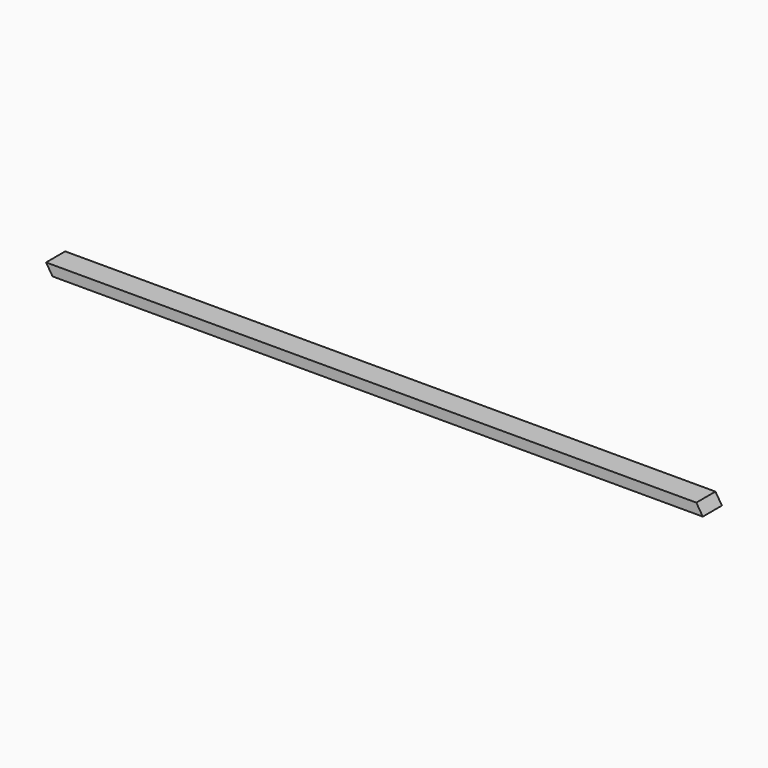
from build123d import *

# Parameters (mm, degrees)
F1_DEPTH      = 19.05
F3_DEPTH      = 44.451
F3_DEPTH_BACK = 44.451


with BuildPart() as f1:
    # F0 (on Top) → F1 (new body, symmetric)
    with BuildSketch(Plane.XY):
        Polygon((1220.7875, -44.45), (1220.7875, 44.45), (69.3424678135, 44.45), (-1220.7875, 44.45), (-1220.7875, -44.45), (-1164.7174678135, -44.45), align=None)
    extrude(amount=F1_DEPTH, both=True)

    # F2 (on Front) → F3 (cut, two sides)
    with BuildSketch(Plane.XZ) as f3_sk:
        Polygon((1196.7574862058, 19.05), (1220.7875, -19.05), (1220.7875, 19.05), align=None)
        Polygon((-1220.7875, -19.05), (-1196.7574862058, -19.05), (-1220.7875, 19.05), align=None)
    extrude(amount=-F3_DEPTH, mode=Mode.SUBTRACT)
    extrude(f3_sk.sketch, amount=F3_DEPTH_BACK, mode=Mode.SUBTRACT)


solid = f1.part
